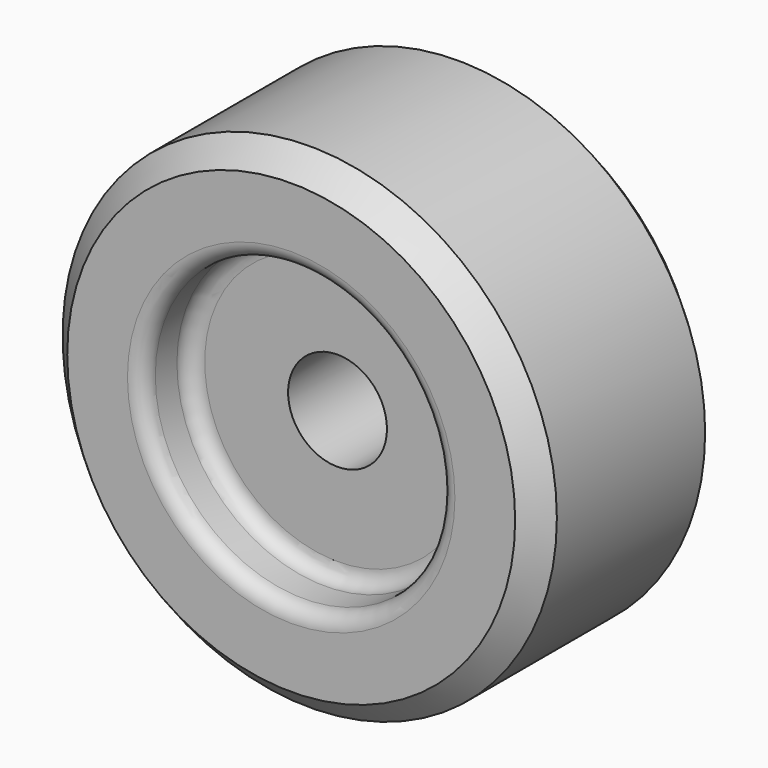
from build123d import *

# Parameters (mm, degrees)
F0_R     = 48
F0_R_2   = 16
F1_DEPTH = 18.75
F0_R_3   = 80
F2_DEPTH = 37.5
F3_SIZE  = 7.5
F4_R     = 5


with BuildPart() as f1:
    # F0 (on Front) → F1 (new body, symmetric)
    with BuildSketch(Plane.XZ):
        Circle(F0_R)
        Circle(F0_R_2, mode=Mode.SUBTRACT)
    extrude(amount=F1_DEPTH, both=True)

    # F0 (on Front) → F2 (join, symmetric)
    with BuildSketch(Plane.XZ):
        Circle(F0_R_3)
        Circle(F0_R, mode=Mode.SUBTRACT)
    extrude(amount=F2_DEPTH, both=True)

    # F3
    f3_edges = [f1.edges().sort_by_distance(p)[0] for p in [
        (-80, 37.5, 0),
        (-80, -37.5, 0),
    ]]
    chamfer(f3_edges, length=F3_SIZE)

    # F4
    f4_edges = [f1.edges().sort_by_distance(p)[0] for p in [
        (-48, -37.5, 0),
        (-48, 37.5, 0),
        (-48, 18.75, 0),
        (-48, -18.75, 0),
    ]]
    fillet(f4_edges, radius=F4_R)


solid = f1.part
